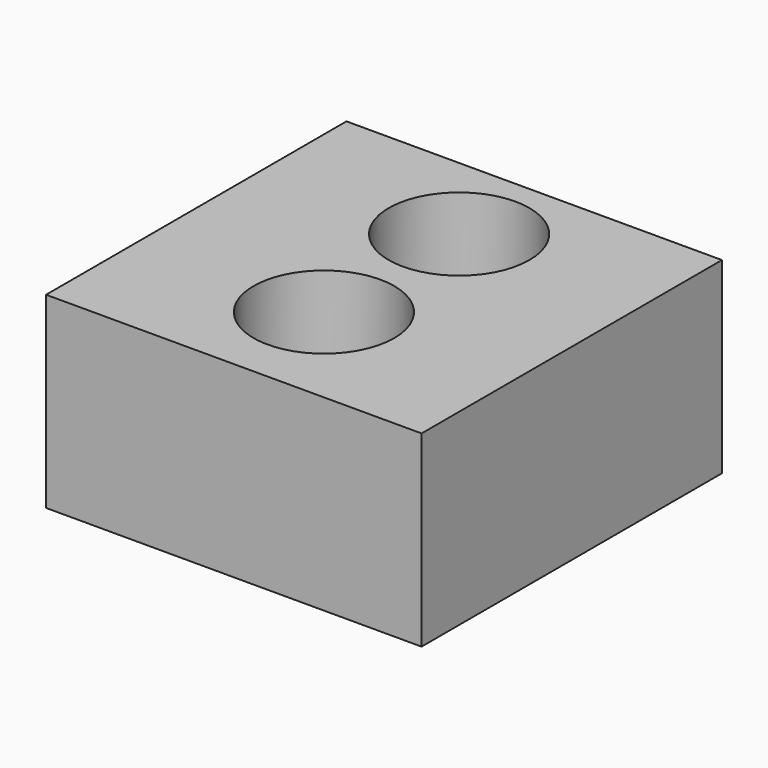
from build123d import *

# Parameters (mm, degrees)
F2_W     = 200
F2_H     = 200
F2_R     = 37.5
F3_DEPTH = 50
F4_DEPTH = 50


with BuildPart() as f3:
    # F2 (on Top) → F3 (new body)
    with BuildSketch(Plane.XY):
        Rectangle(F2_W, F2_H)
        with Locations((0, -40)):
            Circle(F2_R, mode=Mode.SUBTRACT)
        with Locations((0, 50)):
            Circle(F2_R, mode=Mode.SUBTRACT)
        with Locations((0, -40)):
            Circle(F2_R)
        with Locations((0, 50)):
            Circle(F2_R)
    extrude(amount=-F3_DEPTH)

    # F2 (on Top) → F4 (join)
    with BuildSketch(Plane.XY):
        Rectangle(F2_W, F2_H)
        with Locations((0, -40)):
            Circle(F2_R, mode=Mode.SUBTRACT)
        with Locations((0, 50)):
            Circle(F2_R, mode=Mode.SUBTRACT)
    extrude(amount=F4_DEPTH)


solid = f3.part
